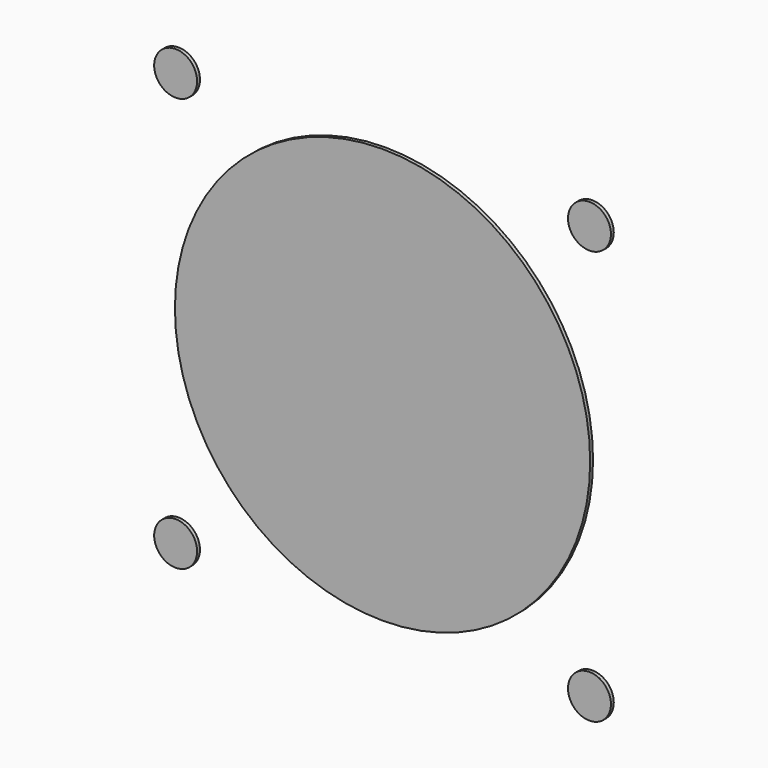
from build123d import *

# Parameters (mm, degrees)
F0_R     = 14.7447
F0_R_2   = 1.524
F1_DEPTH = 0.254


with BuildPart() as f1:
    # F0 (on Front) → F1 (new body)
    with BuildSketch(Plane.XZ):
        Circle(F0_R)
        with Locations((-14.6939, 14.6939)):
            Circle(F0_R_2)
        with Locations((14.6939, 14.6939)):
            Circle(F0_R_2)
        with Locations((14.6939, -14.6939)):
            Circle(F0_R_2)
        with Locations((-14.6939, -14.6939)):
            Circle(F0_R_2)
    extrude(amount=F1_DEPTH)


solid = f1.part
